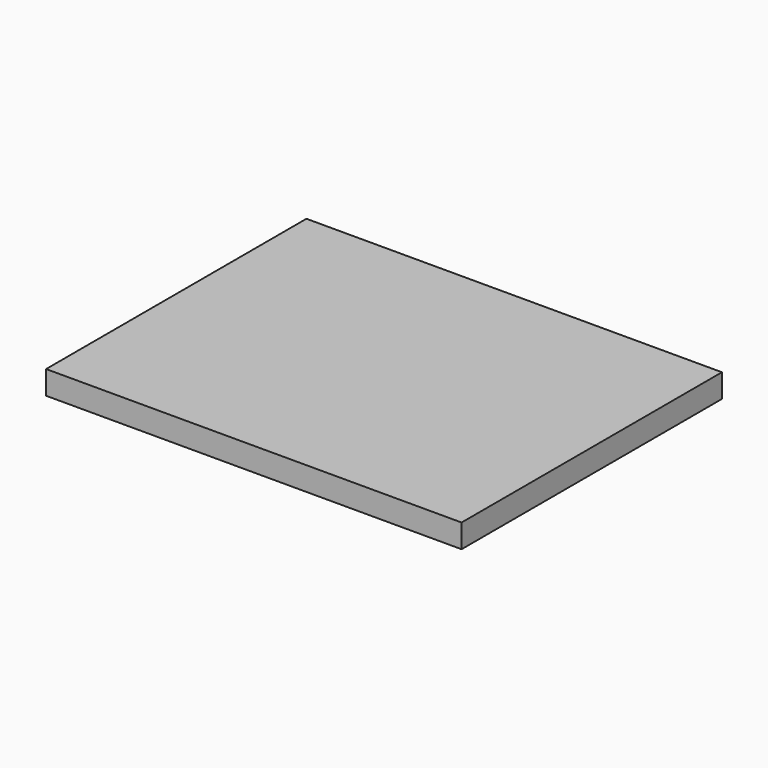
from build123d import *

# Parameters (mm, degrees)
SKETCH001_W = 70.6
SKETCH001_H = 55.3
PAD_DEPTH   = 4


with BuildPart() as part:
    # Sketch001 → Pad (new body)
    with BuildSketch(Plane.XY):
        with Locations((35.3, 27.65)):
            Rectangle(SKETCH001_W, SKETCH001_H)
    extrude(amount=PAD_DEPTH)


solid = part.part
